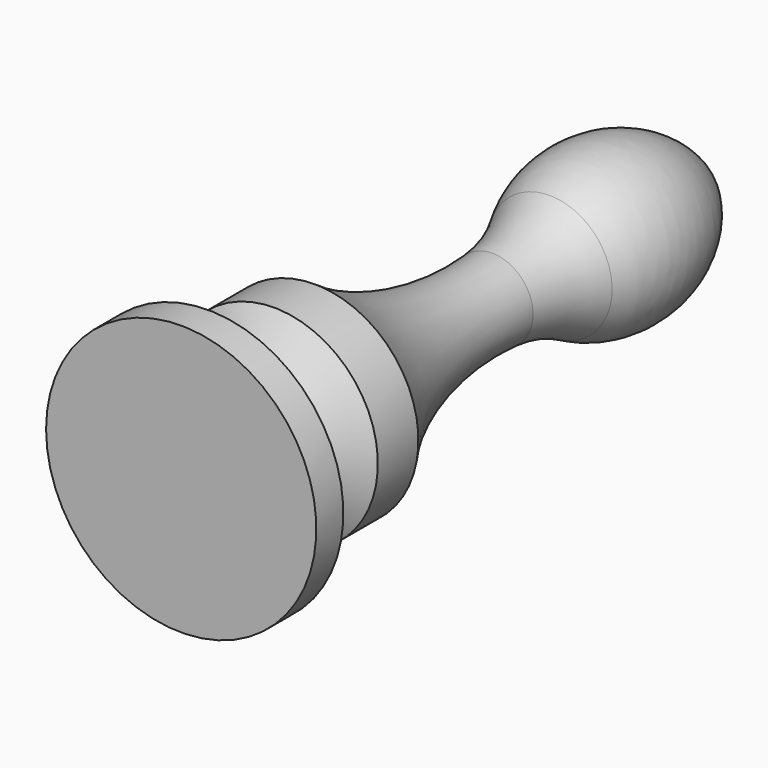
from build123d import *


with BuildPart() as f1:
    # F0 (on Top) → F1 (revolve)
    with BuildSketch(Plane.XY):
        with BuildLine():
            Line((-8, 0), (0, 0))
            Line((0, 0), (0, 32))
            Line((0, 32), (0, 38.59))
            ThreePointArc((0, 38.59), (-4.362911, 33.746938), (-3.702225, 27.262052))
            ThreePointArc((-3.702225, 27.262052), (-2.819413, 25.215625), (-2.411778, 23.024493))
            ThreePointArc((-2.411778, 23.024493), (-3.119934, 16.118153), (-6.14642, 9.87))
            Line((-6.14642, 9.87), (-6.14642, 6.87))
            Line((-6.14642, 6.87), (-3.617705, 5.14))
            Line((-3.617705, 5.14), (-8, 2))
            Line((-8, 2), (-8, 0))
        make_face()
    revolve(axis=Axis((0, 16, 0), (0, 1, 0)))


solid = f1.part
